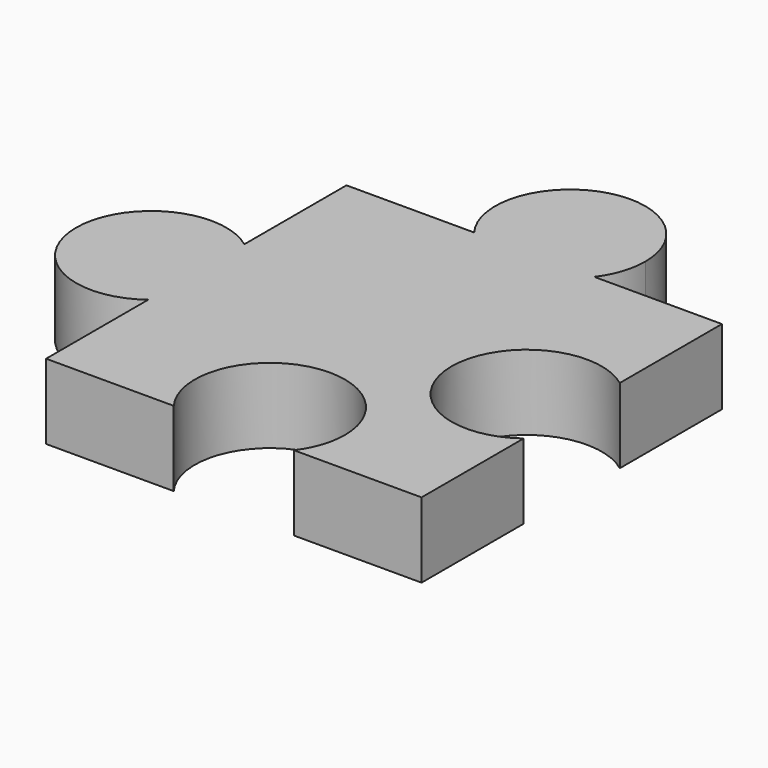
from build123d import *

# Parameters (mm, degrees)
F1_DEPTH = 2.54


with BuildPart() as f1:
    # F0 (on Top) → F1 (new body)
    with BuildSketch(Plane.XY):
        with BuildLine():
            Line((-49.9644750565, 16.7031875085), (-49.9644750565, 20.7671875085))
            ThreePointArc((-49.9644750565, 20.7671875085), (-54.0284750565, 18.7351875085), (-49.9644750565, 16.7031875085))
        make_face()
        with BuildLine():
            ThreePointArc((-48.9484750565, 18.7351875085), (-49.2166299914, 19.8711100411), (-49.9644750565, 20.7671875085))
            Line((-49.9644750565, 20.7671875085), (-49.9644750565, 16.7031875085))
            ThreePointArc((-49.9644750565, 16.7031875085), (-49.2166299914, 17.599264976), (-48.9484750565, 18.7351875085))
        make_face()
        with BuildLine():
            Line((-45.6464750565, 25.0851875085), (-49.9644750565, 25.0851875085))
            Line((-49.9644750565, 25.0851875085), (-49.9644750565, 20.7671875085))
            ThreePointArc((-49.9644750565, 20.7671875085), (-49.2166299914, 19.8711100411), (-48.9484750565, 18.7351875085))
            ThreePointArc((-48.9484750565, 18.7351875085), (-49.2166299914, 17.599264976), (-49.9644750565, 16.7031875085))
            Line((-49.9644750565, 16.7031875085), (-49.9644750565, 12.3851875085))
            Line((-49.9644750565, 12.3851875085), (-45.6464750565, 12.3851875085))
            ThreePointArc((-45.6464750565, 12.3851875085), (-44.4176935822, 16.3188430856), (-41.0744750565, 13.9091875085))
            ThreePointArc((-41.0744750565, 13.9091875085), (-41.2048194795, 13.1059689828), (-41.5824750565, 12.3851875085))
            Line((-41.5824750565, 12.3851875085), (-37.2644750565, 12.3851875085))
            Line((-37.2644750565, 12.3851875085), (-37.2644750565, 16.7031875085))
            ThreePointArc((-37.2644750565, 16.7031875085), (-41.3284750565, 18.7351875085), (-37.2644750565, 20.7671875085))
            Line((-37.2644750565, 20.7671875085), (-37.2644750565, 25.0851875085))
            Line((-37.2644750565, 25.0851875085), (-41.5824750565, 25.0851875085))
            ThreePointArc((-41.5824750565, 25.0851875085), (-43.6144750565, 24.0691875085), (-45.6464750565, 25.0851875085))
        make_face()
        with BuildLine():
            Line((-41.5824750565, 25.0851875085), (-45.6464750565, 25.0851875085))
            ThreePointArc((-45.6464750565, 25.0851875085), (-43.6144750565, 24.0691875085), (-41.5824750565, 25.0851875085))
        make_face()
        with BuildLine():
            ThreePointArc((-41.0744750565, 26.6091875085), (-44.4176935822, 29.0188430856), (-45.6464750565, 25.0851875085))
            Line((-45.6464750565, 25.0851875085), (-41.5824750565, 25.0851875085))
            ThreePointArc((-41.5824750565, 25.0851875085), (-41.2048194795, 25.8059689828), (-41.0744750565, 26.6091875085))
        make_face()
    extrude(amount=F1_DEPTH)


solid = f1.part
